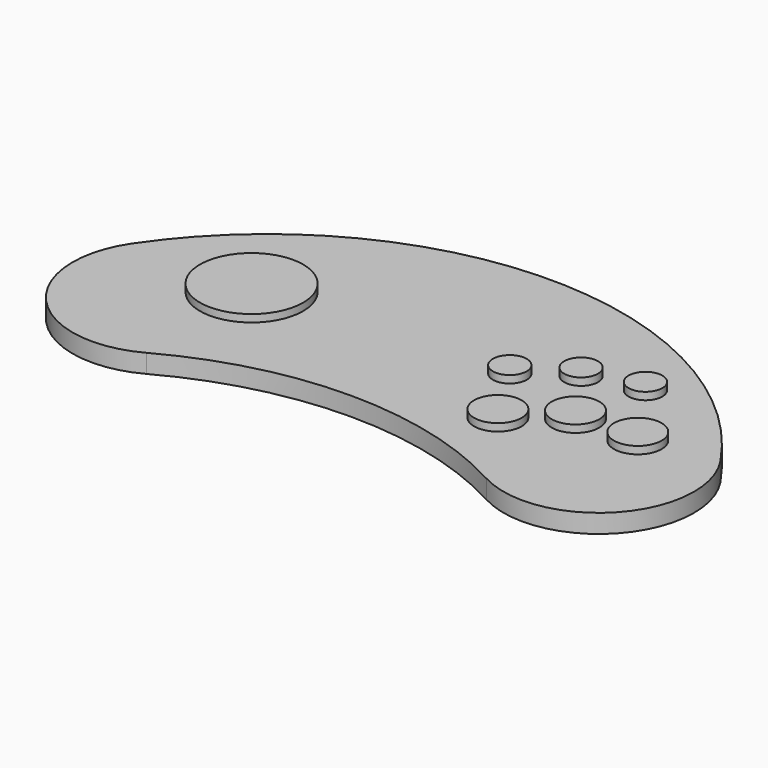
from build123d import *

# Parameters (mm, degrees)
PAD_DEPTH     = 5
SKETCH001_R   = 13.875
SKETCH001_R_2 = 6.4
SKETCH001_R_3 = 4.55
PAD001_DEPTH  = 2


with BuildPart() as part:
    # Sketch → Pad (new body)
    with BuildSketch(Plane.XY):
        with BuildLine():
            ThreePointArc((45.653278, -37.879963), (0, -26.25), (-45.653278, -37.879963))
            ThreePointArc((-79.129462, -1.094945), (-76.833677, -32.630667), (-45.653278, -37.879963))
            ThreePointArc((79.129462, -1.094945), (0, 41), (-79.129462, -1.094945))
            ThreePointArc((45.653278, -37.879963), (76.833677, -32.630667), (79.129462, -1.094945))
        make_face()
    extrude(amount=PAD_DEPTH)

    # Sketch001 (on Face6 of Pad) → Pad001 (join)
    with BuildSketch(Plane.XY.offset(5)):
        with Locations((-45.704856, -2.533086)):
            Circle(SKETCH001_R)
        with Locations((30.286027, -14.783871)):
            Circle(SKETCH001_R_2)
        with Locations((43.390221, -5.090053)):
            Circle(SKETCH001_R_2)
        with Locations((59.680872, -4.538045)):
            Circle(SKETCH001_R_2)
        with Locations((19.747467, 2.384254)):
            Circle(SKETCH001_R_3)
        with Locations((32.104855, 10.886898)):
            Circle(SKETCH001_R_3)
        with Locations((46.728688, 14.225088)):
            Circle(SKETCH001_R_3)
    extrude(amount=PAD001_DEPTH)


solid = part.part
